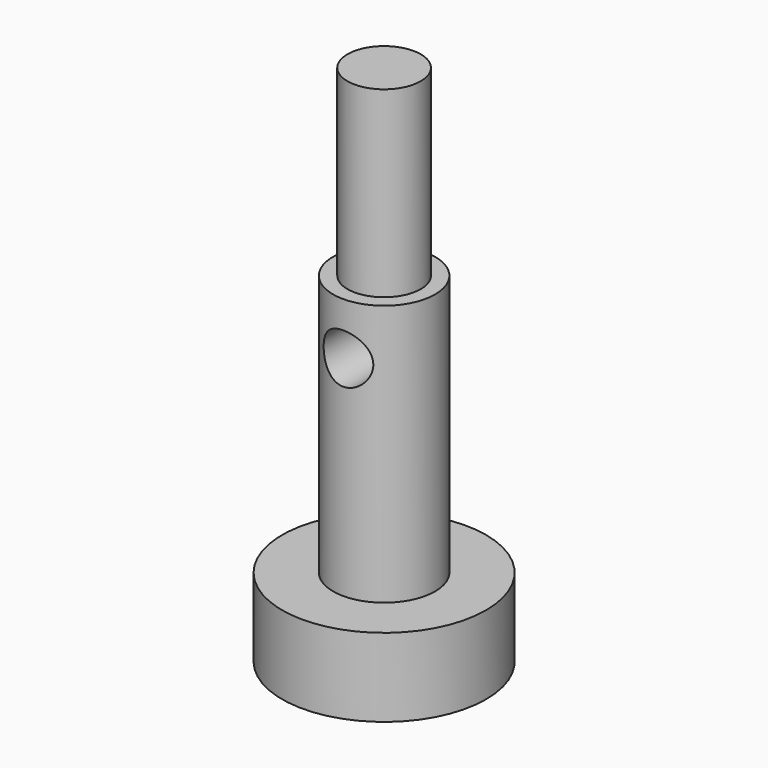
from build123d import *

# Parameters (mm, degrees)
F0_R      = 3.9
F1_DEPTH  = 3
F3_R      = 1.95
F4_DEPTH  = 10
F7_R      = 1.4
F8_DEPTH  = 7
F5_R      = 0.95
F9_DEPTH  = 4.8
F10_DEPTH = 4.8


with BuildPart() as f1:
    # F0 (on Top) → F1 (new body)
    with BuildSketch(Plane.XY):
        Circle(F0_R)
    extrude(amount=F1_DEPTH)

    # F3 (on offset) → F4 (join)
    with BuildSketch(Plane.XY.offset(3)):
        Circle(F3_R)
    extrude(amount=F4_DEPTH)

    # F7 (on offset) → F8 (join)
    with BuildSketch(Plane.XY.offset(13)):
        Circle(F7_R)
    extrude(amount=F8_DEPTH)

    # F5 (on Front) → F9 (cut)
    with BuildSketch(Plane.XZ):
        with Locations((0, 11)):
            Circle(F5_R)
    extrude(amount=F9_DEPTH, mode=Mode.SUBTRACT)

    # F5 (on Front) → F10 (cut)
    with BuildSketch(Plane.XZ):
        with Locations((0, 11)):
            Circle(F5_R)
    extrude(amount=-F10_DEPTH, mode=Mode.SUBTRACT)


solid = f1.part
